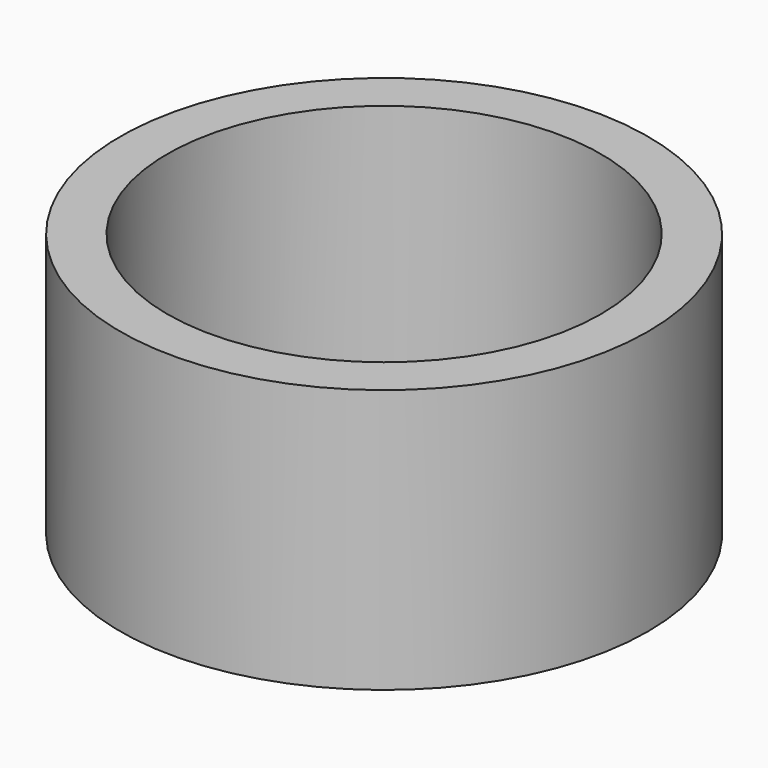
from build123d import *

# Parameters (mm, degrees)
CYLINDER005_R     = 5.25
CYLINDER005_DEPTH = 10
CYLINDER003_R     = 5.75
CYLINDER003_DEPTH = 10
CYLINDER004_R     = 7
CYLINDER004_DEPTH = 7


with BuildPart() as holderlenssmall:
    # Cylinder005 → Cylinder005 (new body)
    with BuildSketch(Plane.XY):
        Circle(CYLINDER005_R)
    extrude(amount=CYLINDER005_DEPTH)


with BuildPart() as holderlens:
    # Cylinder003 → Cylinder003 (new body)
    with BuildSketch(Plane.XY.offset(1)):
        Circle(CYLINDER003_R)
    extrude(amount=CYLINDER003_DEPTH)


with BuildPart() as lensholder01:
    # Cylinder004 → Cylinder004 (new body)
    with BuildSketch(Plane.XY):
        Circle(CYLINDER004_R)
    extrude(amount=CYLINDER004_DEPTH)

    # Cut003: cut HolderLens
    add(holderlens.part, mode=Mode.SUBTRACT)

    # Cut004: cut HolderLensSmall
    add(holderlenssmall.part, mode=Mode.SUBTRACT)


solid = lensholder01.part
